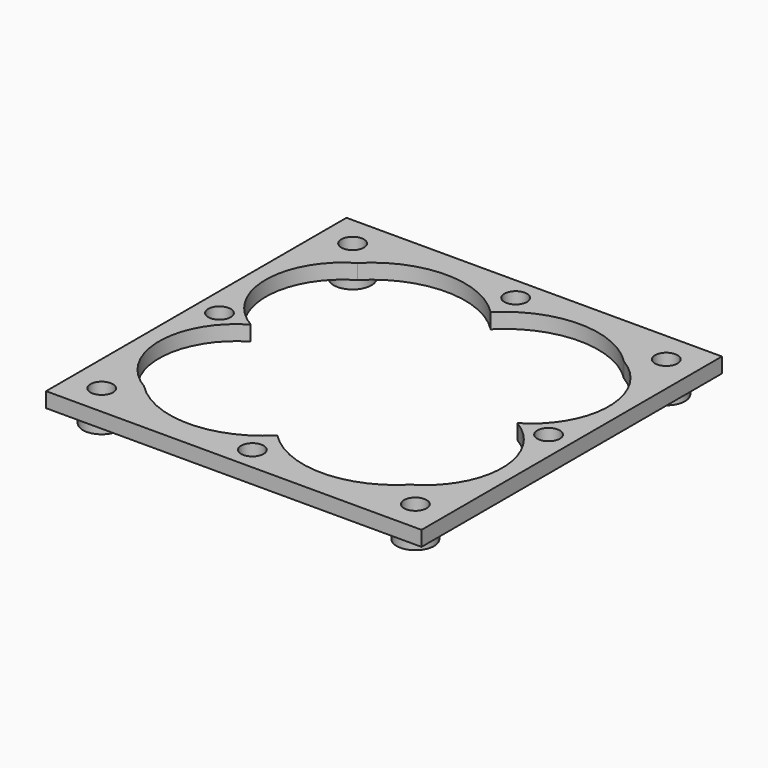
from build123d import *

# Parameters (mm, degrees)
F0_W     = 50
F0_H     = 50
F0_R     = 1.5
F1_DEPTH = 2
F3_DEPTH = 25
F4_R     = 2.5
F4_R_2   = 1.5
F5_DEPTH = 2.1


with BuildPart() as f1:
    # F0 (on Top) → F1 (new body)
    with BuildSketch(Plane.XY):
        Rectangle(F0_W, F0_H)
        with Locations((-20.885, -20.885)):
            Circle(F0_R, mode=Mode.SUBTRACT)
        with Locations((0, -21.913239149)):
            Circle(F0_R, mode=Mode.SUBTRACT)
        with Locations((20.885, -20.885)):
            Circle(F0_R, mode=Mode.SUBTRACT)
        with Locations((-21.913239149, 0)):
            Circle(F0_R, mode=Mode.SUBTRACT)
        with Locations((-20.885, 20.885)):
            Circle(F0_R, mode=Mode.SUBTRACT)
        with Locations((21.913239149, 0)):
            Circle(F0_R, mode=Mode.SUBTRACT)
        with Locations((0, 21.913239149)):
            Circle(F0_R, mode=Mode.SUBTRACT)
        with Locations((20.885, 20.885)):
            Circle(F0_R, mode=Mode.SUBTRACT)
    extrude(amount=F1_DEPTH)

    # F2 (on face) → F3 (cut)
    with BuildSketch(Plane.XY.offset(2)):
        with BuildLine():
            ThreePointArc((0, 17.7539922297), (-8.8769961149, 21.470552283), (-17.7539922297, 17.7539922297))
            ThreePointArc((-17.7539922297, 17.7539922297), (-22.8434548265, 8.8769961149), (-17.7539922297, 0))
            ThreePointArc((-17.7539922297, 0), (-22.8434548265, -8.8769961149), (-17.7539922297, -17.7539922297))
            ThreePointArc((-17.7539922297, -17.7539922297), (-8.8769961149, -21.470552283), (0, -17.7539922297))
            ThreePointArc((0, -17.7539922297), (8.8769961149, -21.470552283), (17.7539922297, -17.7539922297))
            ThreePointArc((17.7539922297, -17.7539922297), (22.8434548265, -8.8769961149), (17.7539922297, 0))
            ThreePointArc((17.7539922297, 0), (22.8434548265, 8.8769961149), (17.7539922297, 17.7539922297))
            ThreePointArc((17.7539922297, 17.7539922297), (8.8769961149, 21.470552283), (0, 17.7539922297))
        make_face()
    extrude(amount=-F3_DEPTH, mode=Mode.SUBTRACT)

    # F4 (on face) → F5 (join)
    with BuildSketch(Plane(origin=(0, 0, 0), x_dir=(1, 0, 0), z_dir=(0, 0, -1))):
        with Locations((-20.885, 20.885)):
            Circle(F4_R)
        with Locations((-20.885, 20.885)):
            Circle(F4_R_2, mode=Mode.SUBTRACT)
        with Locations((20.885, 20.885)):
            Circle(F4_R)
        with Locations((20.885, 20.885)):
            Circle(F4_R_2, mode=Mode.SUBTRACT)
        with Locations((20.885, -20.885)):
            Circle(F4_R)
        with Locations((20.885, -20.885)):
            Circle(F4_R_2, mode=Mode.SUBTRACT)
        with Locations((-20.885, -20.885)):
            Circle(F4_R)
        with Locations((-20.885, -20.885)):
            Circle(F4_R_2, mode=Mode.SUBTRACT)
    extrude(amount=F5_DEPTH)


solid = f1.part
